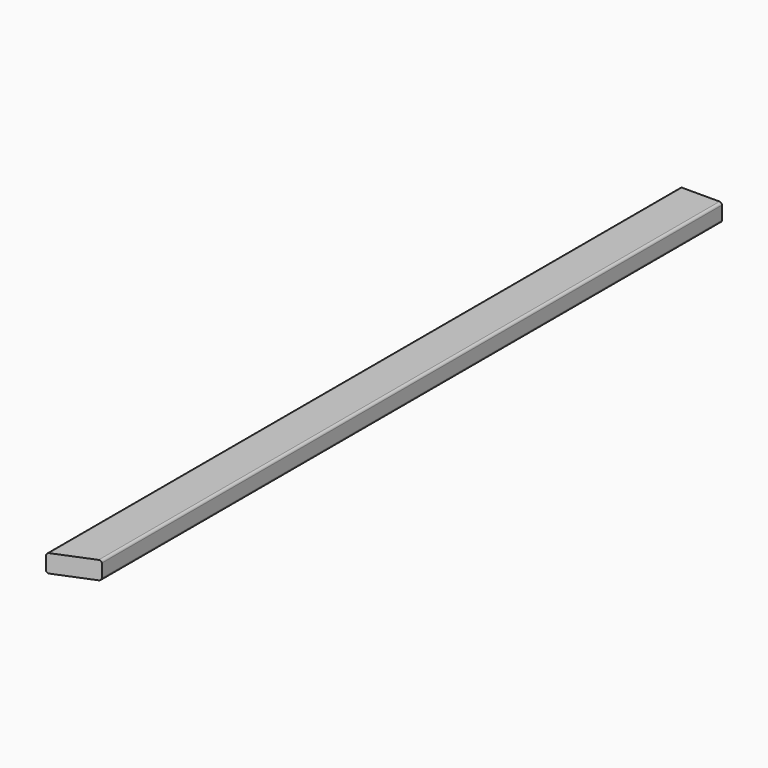
from build123d import *

# Parameters (mm, degrees)
F0_W     = 88.9
F0_H     = 38.1
F1_DEPTH = 1676.4
F3_DEPTH = 84.074
F4_R     = 5.08


with BuildPart() as f1:
    # F0 (on Front) → F1 (new body)
    with BuildSketch(Plane.XZ):
        with Locations((44.45, 19.05)):
            Rectangle(F0_W, F0_H)
    extrude(amount=F1_DEPTH)

    # F2 (on face) → F3 (cut)
    with BuildSketch(Plane.XY.offset(38.1)):
        Polygon((88.9, -1640.120582), (0, -1676.4), (88.9, -1676.4), align=None)
    extrude(amount=-F3_DEPTH, mode=Mode.SUBTRACT)

    # F4
    f4_edges = [f1.edges().sort_by_distance(p)[0] for p in [
        (0, -838.2, 38.1),
        (88.9, -820.060291, 38.1),
        (0, -838.2, 0),
        (88.9, -820.060291, 0),
    ]]
    fillet(f4_edges, radius=F4_R)


solid = f1.part
